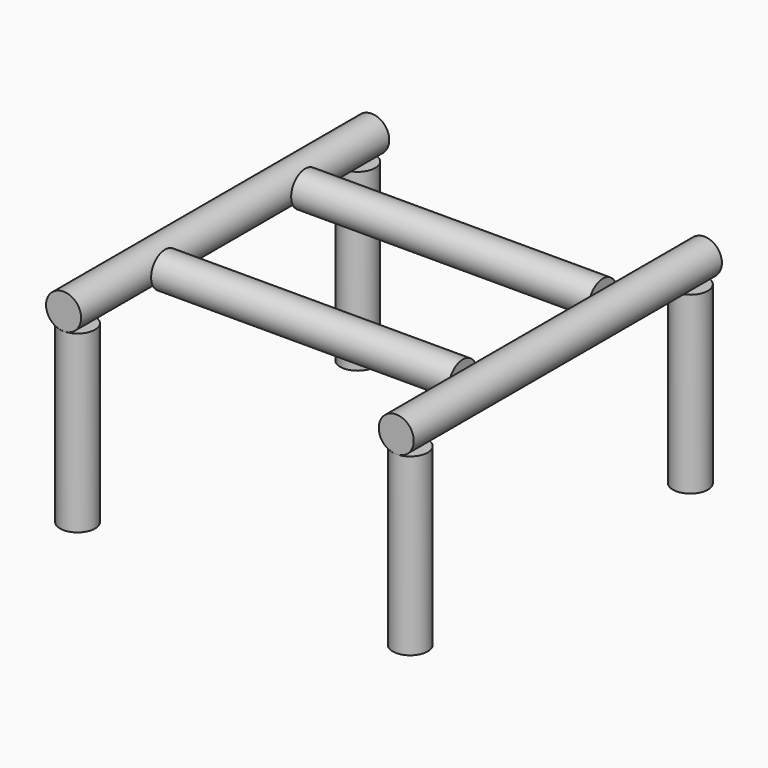
from build123d import *

# Parameters (mm, degrees)
CYLINDER002_R          = 10
CYLINDER002_DEPTH      = 220
CYLINDER002_ROLL_ANGLE = -90
CYLINDER003_R          = 10
CYLINDER003_DEPTH      = 100
CYLINDER004_R          = 10
CYLINDER004_DEPTH      = 100
CYLINDER005_R          = 10
CYLINDER005_DEPTH      = 100
CYLINDER006_R          = 10
CYLINDER006_DEPTH      = 100
CYLINDER007_R          = 10
CYLINDER007_DEPTH      = 170
CYLINDER008_R          = 10
CYLINDER008_DEPTH      = 220
CYLINDER008_ROLL_ANGLE = -90
CYLINDER009_R          = 10
CYLINDER009_DEPTH      = 170


with BuildPart() as cylinder002:
    # Cylinder002 → Cylinder002 (new body)
    with BuildSketch(Plane.XY):
        Circle(CYLINDER002_R)
    extrude(amount=CYLINDER002_DEPTH)


with BuildPart() as cylinder002_1:
    # Cylinder002 roll: moved
    add(cylinder002.part.rotate(Axis((0, 0, 0), (1, 0, 0)), CYLINDER002_ROLL_ANGLE))


with BuildPart() as cylinder002_2:
    # Cylinder002 placement: moved
    add(cylinder002_1.part.moved(Location((-95, -110, 65))))


with BuildPart() as cylinder003:
    # Cylinder003 → Cylinder003 (new body)
    with BuildSketch(Plane(origin=(95, -100, -45), x_dir=(1, 0, 0), z_dir=(0, 0, 1))):
        Circle(CYLINDER003_R)
    extrude(amount=CYLINDER003_DEPTH)


with BuildPart() as cylinder004:
    # Cylinder004 → Cylinder004 (new body)
    with BuildSketch(Plane(origin=(-95, -100, -45), x_dir=(1, 0, 0), z_dir=(0, 0, 1))):
        Circle(CYLINDER004_R)
    extrude(amount=CYLINDER004_DEPTH)


with BuildPart() as cylinder005:
    # Cylinder005 → Cylinder005 (new body)
    with BuildSketch(Plane(origin=(-95, 100, -45), x_dir=(1, 0, 0), z_dir=(0, 0, 1))):
        Circle(CYLINDER005_R)
    extrude(amount=CYLINDER005_DEPTH)


with BuildPart() as cylinder006:
    # Cylinder006 → Cylinder006 (new body)
    with BuildSketch(Plane(origin=(95, 100, -45), x_dir=(1, 0, 0), z_dir=(0, 0, 1))):
        Circle(CYLINDER006_R)
    extrude(amount=CYLINDER006_DEPTH)


with BuildPart() as cylinder007:
    # Cylinder007 → Cylinder007 (new body)
    with BuildSketch(Plane(origin=(85, 50, 65), x_dir=(0, 1, 0), z_dir=(-1, 0, 0))):
        Circle(CYLINDER007_R)
    extrude(amount=CYLINDER007_DEPTH)


with BuildPart() as cylinder008:
    # Cylinder008 → Cylinder008 (new body)
    with BuildSketch(Plane.XY):
        Circle(CYLINDER008_R)
    extrude(amount=CYLINDER008_DEPTH)


with BuildPart() as cylinder008_1:
    # Cylinder008 roll: moved
    add(cylinder008.part.rotate(Axis((0, 0, 0), (1, 0, 0)), CYLINDER008_ROLL_ANGLE))


with BuildPart() as cylinder008_2:
    # Cylinder008 placement: moved
    add(cylinder008_1.part.moved(Location((95, -110, 65))))


with BuildPart() as cylinder009:
    # Cylinder009 → Cylinder009 (new body)
    with BuildSketch(Plane(origin=(85, -50, 65), x_dir=(0, 1, 0), z_dir=(-1, 0, 0))):
        Circle(CYLINDER009_R)
    extrude(amount=CYLINDER009_DEPTH)


solid = Compound([cylinder002_2.part, cylinder003.part, cylinder004.part, cylinder005.part, cylinder006.part, cylinder007.part, cylinder008_2.part, cylinder009.part])
